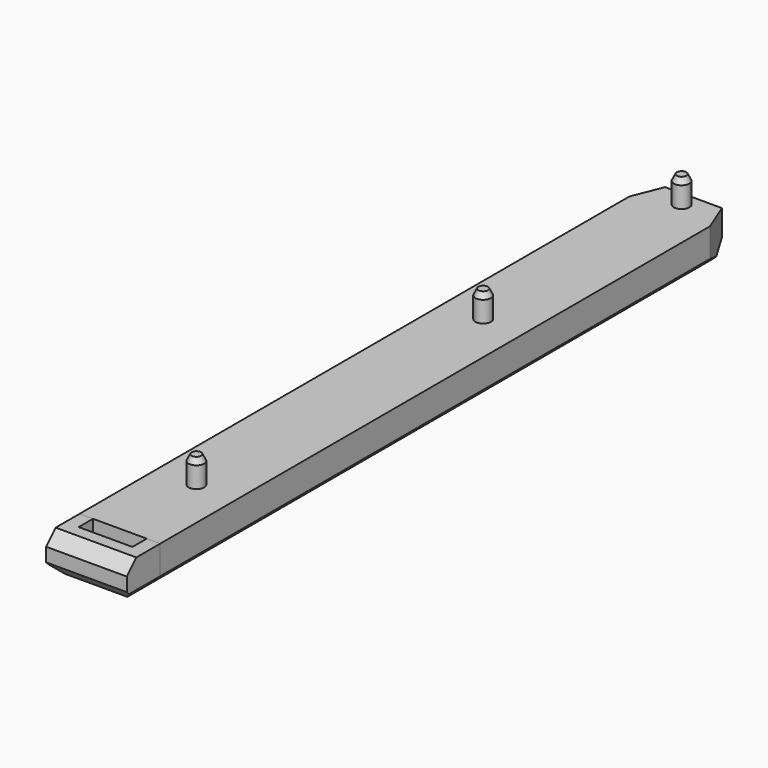
from build123d import *

# Parameters (mm, degrees)
F0_W       = 13.5
F0_H       = 120
F1_DEPTH   = 6.3
F2_R       = 1.3
F3_DEPTH   = 4.5
F4_SIZE2   = 5
F4_SIZE    = 2
F5_SIZE2   = 1
F5_SIZE    = 0.5
F5_2_SIZE2 = 1
F5_2_SIZE  = 0.5
F5_3_SIZE2 = 1
F5_3_SIZE  = 0.5
F6_W       = 13.5
F6_H       = 6.3
F7_DEPTH   = 7
F9_DEPTH   = 4.5
F10_SIZE   = 2
F11_SIZE2  = 3
F11_SIZE   = 2
F12_SIZE   = 1.5
F12_2_SIZE = 1.5


with BuildPart() as f1:
    # F0 (on Top) → F1 (new body)
    with BuildSketch(Plane.XY):
        Rectangle(F0_W, F0_H)
    extrude(amount=F1_DEPTH)

    # F2 (on face) → F3 (join)
    with BuildSketch(Plane.XY.offset(6.3)):
        with Locations((0, 57.5)):
            Circle(F2_R)
        with Locations((0, 16)):
            Circle(F2_R)
        with Locations((0, -44)):
            Circle(F2_R)
    extrude(amount=F3_DEPTH)

    # F4
    f4_edges = [f1.edges().sort_by_distance(p)[0] for p in [
        (6.75, 60, 3.15),
        (-6.75, 60, 3.15),
    ]]
    f4_side = f1.faces().sort_by_distance((0, 60, 3.15))[0]
    chamfer(f4_edges, length=F4_SIZE, length2=F4_SIZE2, reference=f4_side)

    # F5
    f5_edges = [f1.edges().sort_by_distance(p)[0] for p in [
        (-1.3, -44, 10.8),
    ]]
    f5_side = f1.faces().sort_by_distance((0, -44, 10.8))[0]
    chamfer(f5_edges, length=F5_SIZE, length2=F5_SIZE2, reference=f5_side)

    # F5#2
    f5_2_edges = [f1.edges().sort_by_distance(p)[0] for p in [
        (-1.3, 16, 10.8),
    ]]
    f5_2_side = f1.faces().sort_by_distance((0, 16, 10.8))[0]
    chamfer(f5_2_edges, length=F5_2_SIZE, length2=F5_2_SIZE2, reference=f5_2_side)

    # F5#3
    f5_3_edges = [f1.edges().sort_by_distance(p)[0] for p in [
        (-1.3, 57.5, 10.8),
    ]]
    f5_3_side = f1.faces().sort_by_distance((0, 57.5, 10.8))[0]
    chamfer(f5_3_edges, length=F5_3_SIZE, length2=F5_3_SIZE2, reference=f5_3_side)

    # F11
    f11_edges = [f1.edges().sort_by_distance(p)[0] for p in [
        (0, 60, 0),
    ]]
    f11_side = f1.faces().sort_by_distance((0, 60, 3.15))[0]
    chamfer(f11_edges, length=F11_SIZE, length2=F11_SIZE2, reference=f11_side)

    # F12
    f12_edges = [f1.edges().sort_by_distance(p)[0] for p in [
        (6.75, -2.5, 0),
        (-6.75, -2.5, 0),
    ]]
    chamfer(f12_edges, length=F12_SIZE)


with BuildPart() as f7:
    # F6 (on face) → F7 (new body)
    with BuildSketch(Plane.XZ.offset(60)):
        with Locations((0, 3.15)):
            Rectangle(F6_W, F6_H)
    extrude(amount=F7_DEPTH)

    # F8 (on Right) → F9 (cut, symmetric)
    with BuildSketch(Plane.YZ):
        Polygon((-60, 6.3), (-63, 6.3), (-63, 5.8), (-64, 4.8), (-64, 2.3), (-60, 2.3), align=None)
    extrude(amount=F9_DEPTH, both=True, mode=Mode.SUBTRACT)

    # F10
    f10_edges = [f7.edges().sort_by_distance(p)[0] for p in [
        (0, -67, 6.3),
        (0, -67, 0),
    ]]
    chamfer(f10_edges, length=F10_SIZE)

    # F12#2
    f12_2_edges = [f7.edges().sort_by_distance(p)[0] for p in [
        (6.75, -62.5, 0),
        (-6.75, -62.5, 0),
    ]]
    chamfer(f12_2_edges, length=F12_2_SIZE)


solid = Compound([f1.part, f7.part])
